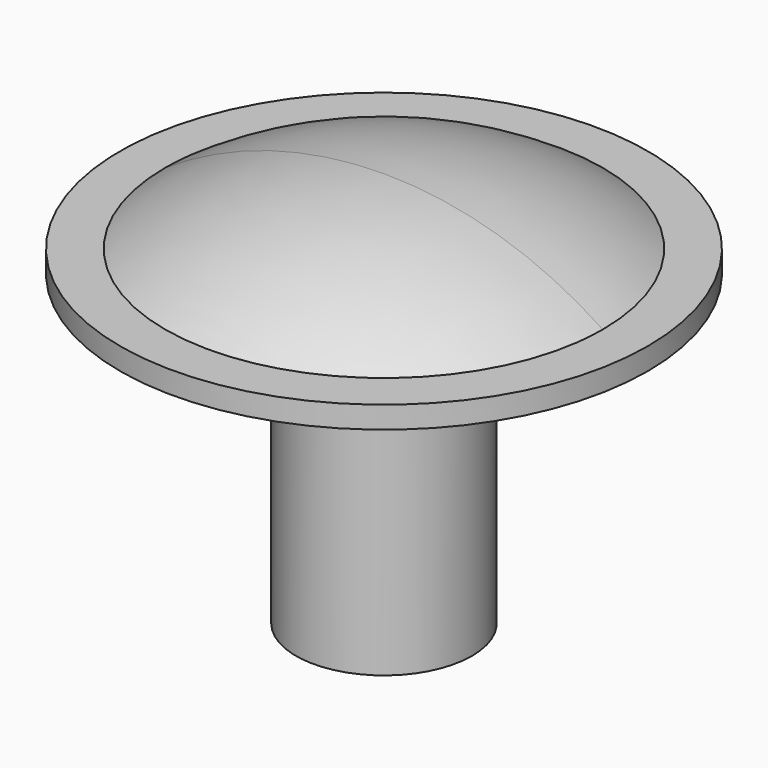
from build123d import *

# Parameters (mm, degrees)
F1_ANGLE = 180
F2_R     = 18
F2_R_2   = 4.0025
F3_DEPTH = 14
F5_R     = 12
F6_DEPTH = 1
F7_R     = 4.0025
F8_DEPTH = 11


with BuildPart() as f1:
    # F0 (on Top) → F1 (revolve)
    with BuildSketch(Plane.XY):
        with BuildLine():
            ThreePointArc((0, -18), (12.727922, -12.727922), (18, 0))
            ThreePointArc((18, 0), (12.727922, 12.727922), (0, 18))
            Line((0, 18), (0, -18))
        make_face()
    revolve(axis=Axis((0, 0, 0), (0, -1, 0)), revolution_arc=F1_ANGLE)

    # F2 (on face) → F3 (cut)
    with BuildSketch(Plane(origin=(0, 0, 0), x_dir=(1, 0, 0), z_dir=(0, 0, -1))):
        Circle(F2_R)
        Circle(F2_R_2, mode=Mode.SUBTRACT)
    extrude(amount=-F3_DEPTH, mode=Mode.SUBTRACT)

    # F5 (on offset) → F6 (join)
    with BuildSketch(Plane.XY.offset(14)):
        Circle(F5_R)
    extrude(amount=F6_DEPTH)

    # F7 (on face) → F8 (join)
    with BuildSketch(Plane(origin=(0, 0, 0), x_dir=(1, 0, 0), z_dir=(0, 0, -1))):
        Circle(F7_R)
    extrude(amount=-F8_DEPTH)


solid = f1.part
